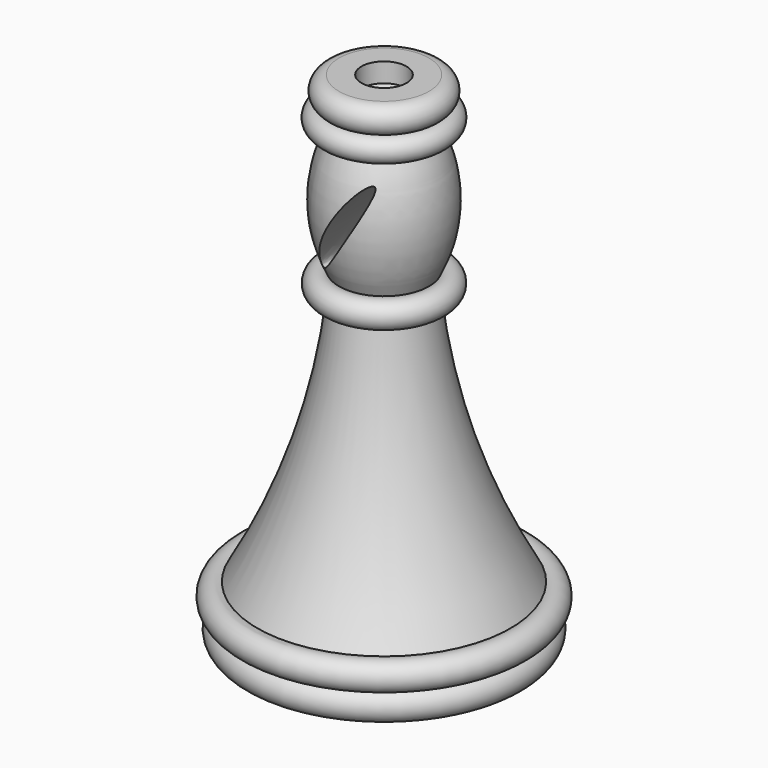
from build123d import *

# Parameters (mm, degrees)
F3_DEPTH = 25.4
F4_DEPTH = 77.724


with BuildPart() as f1:
    # F0 (on Front) → F1 (revolve)
    with BuildSketch(Plane.XZ):
        with BuildLine():
            Line((-19.05, -29.6811293811), (0, -29.6811293811))
            Line((0, -29.6811293811), (0, 33.8188706189))
            Line((0, 33.8188706189), (0, 41.6181050241))
            Line((0, 41.6181050241), (-3.3875207882, 42.908590287))
            Line((-3.3875207882, 42.908590287), (-3.3875207882, 45.8121784031))
            Line((-3.3875207882, 45.8121784031), (-6.7750415765, 45.8121784031))
            ThreePointArc((-6.7750415765, 45.8121784031), (-8.7791262614, 44.3325617108), (-7.9551467856, 41.9816727717))
            ThreePointArc((-7.9551467856, 41.9816727717), (-9.5777135248, 39.5488909688), (-6.7750415765, 38.7145169079))
            ThreePointArc((-6.7750415765, 38.7145169079), (-9.0182591506, 29.3585089967), (-6.7750415765, 20.0025010854))
            ThreePointArc((-6.7750415765, 20.0025010854), (-9.6628064429, 18.2280847803), (-6.7750415765, 16.4536684752))
            ThreePointArc((-6.7750415765, 16.4536684752), (-10.9411779947, -3.0607254624), (-19.05, -21.2929844856))
            ThreePointArc((-19.05, -21.2929844856), (-21.9872034753, -22.7719014538), (-19.9447323387, -25.3492394817))
            ThreePointArc((-19.9447323387, -25.3492394817), (-21.2616631783, -27.8795920285), (-19.05, -29.6811293811))
        make_face()
        with BuildLine():
            ThreePointArc((-19.05, -25.1644365489), (-19.4872962065, -25.3055922274), (-19.9447323387, -25.3492394817))
            ThreePointArc((-19.9447323387, -25.3492394817), (-19.5068090635, -25.2111197867), (-19.05, -25.1644365489))
        make_face(mode=Mode.SUBTRACT)
        with BuildLine():
            ThreePointArc((-6.7750415765, 41.6181050241), (-7.3924615736, 41.7110570287), (-7.9551467856, 41.9816727717))
            ThreePointArc((-7.9551467856, 41.9816727717), (-7.3332699686, 41.9031871665), (-6.7750415765, 41.6181050241))
        make_face(mode=Mode.SUBTRACT)
        with BuildLine():
            ThreePointArc((-6.7750415765, 41.6181050241), (-7.3332699686, 41.9031871665), (-7.9551467856, 41.9816727717))
            ThreePointArc((-7.9551467856, 41.9816727717), (-7.3924615736, 41.7110570287), (-6.7750415765, 41.6181050241))
        make_face()
        with BuildLine():
            ThreePointArc((-19.05, -25.1644365489), (-19.5068090635, -25.2111197867), (-19.9447323387, -25.3492394817))
            ThreePointArc((-19.9447323387, -25.3492394817), (-19.4872962065, -25.3055922274), (-19.05, -25.1644365489))
        make_face()
    revolve(axis=Axis((0, 0, 2.0688706189), (0, 0, 1)))

    # F2 (on Front) → F3 (cut)
    with BuildSketch(Plane.XZ):
        with BuildLine():
            add(Edge.make_bspline(
                [(4.1940715164, 35.1656861603), (2.1225008202, 36.4480864166), (-3.1328211063, 25.6443232253), (-8.3881430328, 14.8405600339), (-1.0612504101, 24.361922969), (6.2656422126, 33.8832859041), (4.1940715164, 35.1656861603)],
                knots=[0, 0, 0, 2.0943951024, 2.0943951024, 4.1887902048, 4.1887902048, 6.2831853072, 6.2831853072, 6.2831853072], degree=2, weights=[1, 0.5, 1, 0.5, 1, 0.5, 1]))
        make_face()
    extrude(amount=-F3_DEPTH, mode=Mode.SUBTRACT)

    # F2 (on Front) → F4 (cut)
    with BuildSketch(Plane.XZ):
        with BuildLine():
            add(Edge.make_bspline(
                [(4.1940715164, 35.1656861603), (2.1225008202, 36.4480864166), (-3.1328211063, 25.6443232253), (-8.3881430328, 14.8405600339), (-1.0612504101, 24.361922969), (6.2656422126, 33.8832859041), (4.1940715164, 35.1656861603)],
                knots=[0, 0, 0, 2.0943951024, 2.0943951024, 4.1887902048, 4.1887902048, 6.2831853072, 6.2831853072, 6.2831853072], degree=2, weights=[1, 0.5, 1, 0.5, 1, 0.5, 1]))
        make_face()
    extrude(amount=F4_DEPTH, mode=Mode.SUBTRACT)


solid = f1.part
